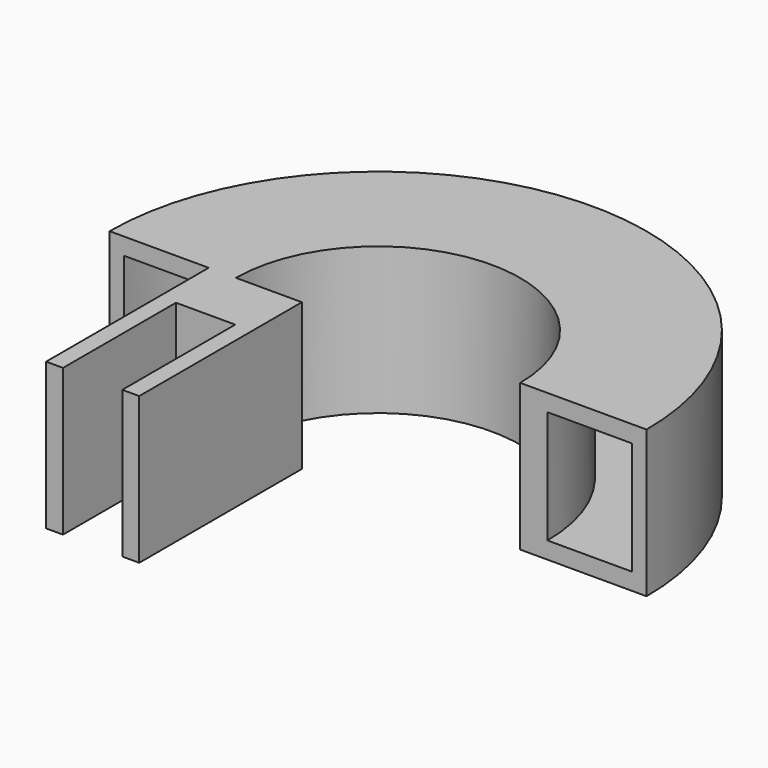
from build123d import *

# Parameters (mm, degrees)
F0_R      = 30
F0_R_2    = 25.169146
F1_DEPTH  = 26
F0_R_3    = 45
F2_DEPTH  = 3
F3_R      = 45
F3_R_2    = 30
F4_DEPTH  = 3
F5_R      = 47.552923
F5_R_2    = 45
F6_DEPTH  = 26
F8_DEPTH  = 26
F9_W      = 10.5
F9_H      = 26
F9_W_2    = 3
F10_DEPTH = 36
F11_W     = 10.5
F11_H     = 26
F12_DEPTH = 25


with BuildPart() as f1:
    # F0 (on Top) → F1 (new body)
    with BuildSketch(Plane.XY):
        Circle(F0_R)
        Circle(F0_R_2, mode=Mode.SUBTRACT)
    extrude(amount=F1_DEPTH)

    # F0 (on Top) → F2 (join)
    with BuildSketch(Plane.XY):
        Circle(F0_R_3)
        Circle(F0_R, mode=Mode.SUBTRACT)
    extrude(amount=F2_DEPTH)

    # F3 (on face) → F4 (join)
    with BuildSketch(Plane.XY.offset(26)):
        Circle(F3_R)
        Circle(F3_R_2, mode=Mode.SUBTRACT)
    extrude(amount=-F4_DEPTH)

    # F5 (on face) → F6 (join)
    with BuildSketch(Plane(origin=(0, 0, 0), x_dir=(1, 0, 0), z_dir=(0, 0, -1))):
        Circle(F5_R)
        Circle(F5_R_2, mode=Mode.SUBTRACT)
    extrude(amount=-F6_DEPTH)

    # F7 (on face) → F8 (cut)
    with BuildSketch(Plane(origin=(0, 0, 0), x_dir=(1, 0, 0), z_dir=(0, 0, -1))):
        with BuildLine():
            Line((25.169146, 0), (47.552923, 0))
            ThreePointArc((47.552923, 0), (0, 47.552923), (-47.552923, 0))
            Line((-47.552923, 0), (-25.169146, 0))
            ThreePointArc((-25.169146, 0), (0, 25.169146), (25.169146, 0))
        make_face()
    extrude(amount=-F8_DEPTH, mode=Mode.SUBTRACT)

    # F9 (on face) → F10 (join)
    with BuildSketch(Plane.XZ):
        with Locations((-21.75, 13)):
            Rectangle(F9_W, F9_H)
        with Locations((-15, 13)):
            Rectangle(F9_W_2, F9_H)
        with Locations((-21.75, 13)):
            Rectangle(F9_W, F9_H)
        with Locations((-28.5, 13)):
            Rectangle(F9_W_2, F9_H)
    extrude(amount=F10_DEPTH)

    # F11 (on face) → F12 (cut)
    with BuildSketch(Plane.XZ.offset(36)):
        with Locations((-21.75, 13)):
            Rectangle(F11_W, F11_H)
    extrude(amount=-F12_DEPTH, mode=Mode.SUBTRACT)


solid = f1.part
